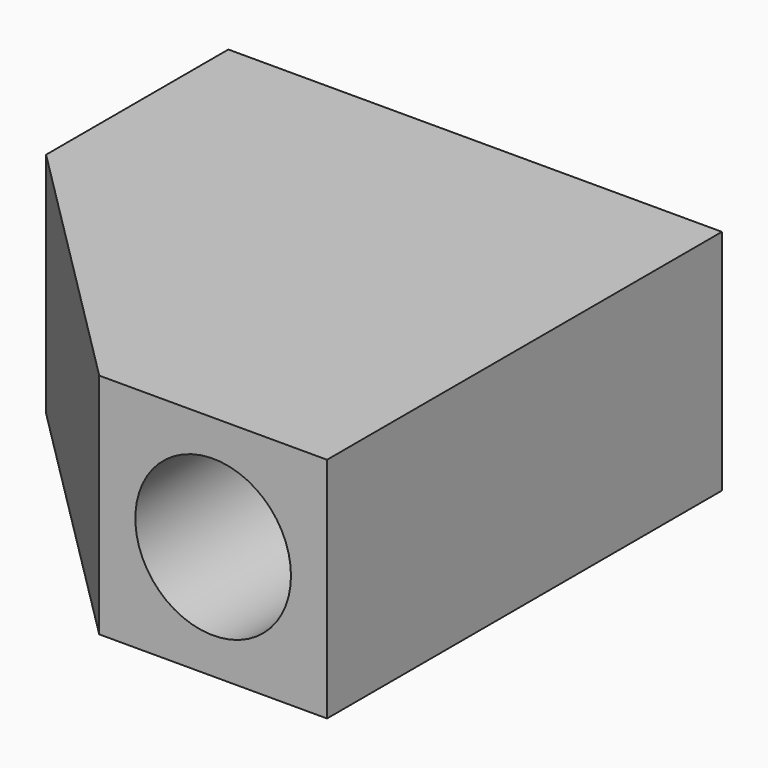
from build123d import *

# Parameters (mm, degrees)
F1_DEPTH = 60
F3_D     = 41
F3_DEPTH = 50
F3_TIP   = 12.3176426901
F6_DEPTH = 60


with BuildPart() as f1:
    # F0 (on Top) → F1 (new body)
    with BuildSketch(Plane.XY):
        Polygon((130, 60), (0, 60), (0, 30), (0, 0), (70, 0), align=None)
    extrude(amount=F1_DEPTH)

    # F3
    with Locations(Plane(origin=(0, 0, 0), x_dir=(0, -1, 0), z_dir=(-1, 0, 0))):
        with Locations((-30, 30)):
            Hole(F3_D / 2, depth=F3_DEPTH)
            with Locations((0, 0, -(F3_DEPTH + F3_TIP / 2))):  # 118° drill point
                Cone(0, F3_D / 2, F3_TIP, mode=Mode.SUBTRACT)

    # F4: F1 across face


with BuildPart() as f1_1:
    add(f1.part)
    add(f1.part.mirror(Plane(origin=(100, 30, 30), x_dir=(0.7071067812, 0.7071067812, 0), z_dir=(0.7071067812, -0.7071067812, 0))))

    # F5 (on Top) → F6 (join)
    with BuildSketch(Plane.XY):
        Polygon((70.0001195073, 0), (0, 0), (70.0001195073, -69.9999108911), align=None)
    extrude(amount=F6_DEPTH)


solid = f1_1.part
